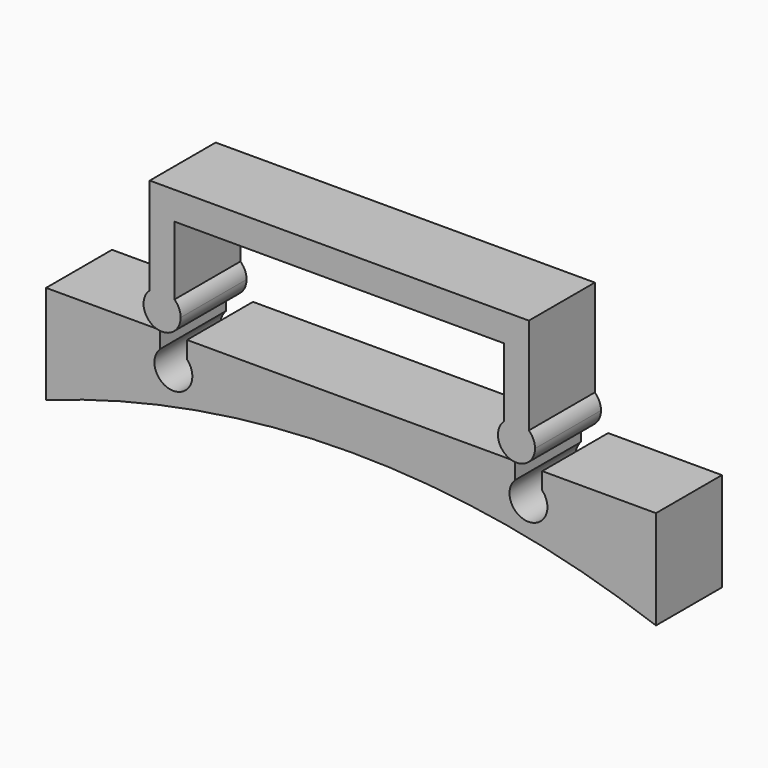
from build123d import *

# Parameters (mm, degrees)
F0_W     = 74
F0_H     = 10
F1_DEPTH = 12
F3_DEPTH = 10
F6_DEPTH = 10
F8_DEPTH = 12


with BuildPart() as f1:
    # F0 (on Top) → F1 (new body)
    with BuildSketch(Plane.XY):
        with Locations((-1.951925, -3.221154)):
            Rectangle(F0_W, F0_H)
    extrude(amount=F1_DEPTH)

    # F2 (on face) → F3 (cut)
    with BuildSketch(Plane.XZ.offset(8.221154)):
        with BuildLine():
            Line((-38.951925, 0), (35.048075, 0))
            ThreePointArc((35.048075, 0), (-1.951925, 6.471955), (-38.951925, 0))
        make_face()
    extrude(amount=-F3_DEPTH, mode=Mode.SUBTRACT)

    # F7 (on face) → F8 (cut)
    with BuildSketch(Plane.XZ.offset(8.221154)):
        with BuildLine():
            Line((21.242046, 9.932511), (21.242046, 12))
            Line((21.242046, 12), (17.948075, 12))
            Line((17.948075, 12), (17.948075, 9.96973))
            ThreePointArc((17.948075, 9.96973), (19.602909, 10.645744), (21.242046, 9.932511))
        make_face()
        with BuildLine():
            ThreePointArc((21.876923, 8.34589), (21.712313, 9.200354), (21.242046, 9.932511))
            ThreePointArc((21.242046, 9.932511), (19.602909, 10.645744), (17.948075, 9.96973))
            ThreePointArc((17.948075, 9.96973), (18.698387, 6.220291), (21.876923, 8.34589))
        make_face()
        with BuildLine():
            Line((-21.851925, 9.917387), (-21.851925, 12))
            Line((-21.851925, 12), (-25.108562, 12))
            Line((-25.108562, 12), (-25.108562, 9.96973))
            ThreePointArc((-25.108562, 9.96973), (-23.469382, 10.619312), (-21.851925, 9.917387))
        make_face()
        with BuildLine():
            ThreePointArc((-21.206345, 8.319609), (-21.373839, 9.181245), (-21.851925, 9.917387))
            ThreePointArc((-21.851925, 9.917387), (-23.469382, 10.619312), (-25.108562, 9.96973))
            ThreePointArc((-25.108562, 9.96973), (-24.402141, 6.201225), (-21.206345, 8.319609))
        make_face()
    extrude(amount=-F8_DEPTH, mode=Mode.SUBTRACT)


with BuildPart() as f6:
    # F5 (on Front) → F6 (new body)
    with BuildSketch(Plane.XZ):
        with BuildLine():
            ThreePointArc((-24.951925, 17.005337), (-23.451925, 17.578286), (-21.951925, 17.005337))
            Line((-21.951925, 17.005337), (-21.951925, 25.328802))
            Line((-21.951925, 25.328802), (18.048075, 25.328802))
            Line((18.048075, 25.328802), (18.048075, 17.002702))
            ThreePointArc((18.048075, 17.002702), (19.548076, 17.575649), (21.048075, 17.002698))
            Line((21.048075, 17.002698), (21.048075, 28.73421))
            Line((21.048075, 28.73421), (-24.951925, 28.73421))
            Line((-24.951925, 28.73421), (-24.951925, 17.005337))
        make_face()
        with BuildLine():
            ThreePointArc((-21.201925, 15.328286), (-21.397965, 16.246844), (-21.951925, 17.005337))
            ThreePointArc((-21.951925, 17.005337), (-23.451925, 17.578286), (-24.951925, 17.005337))
            ThreePointArc((-24.951925, 17.005337), (-24.370484, 13.274326), (-21.201925, 15.328286))
        make_face()
        with BuildLine():
            ThreePointArc((21.048075, 17.002698), (19.548076, 17.575649), (18.048075, 17.002702))
            ThreePointArc((18.048075, 17.002702), (18.629513, 13.27169), (21.798073, 15.325649))
            ThreePointArc((21.798073, 15.325649), (21.602033, 16.244206), (21.048075, 17.002698))
        make_face()
    extrude(amount=F6_DEPTH)


solid = Compound([f1.part, f6.part])
